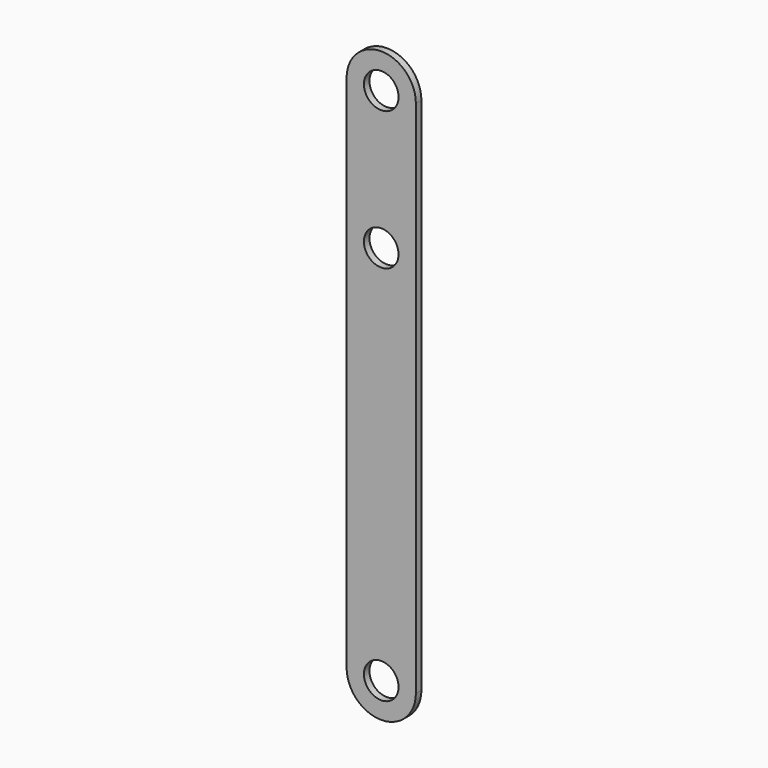
from build123d import *

# Parameters (mm, degrees)
F0_R     = 2.5
F1_DEPTH = 1


with BuildPart() as f1:
    # F0 (on Front) → F1 (new body)
    with BuildSketch(Plane.XZ):
        with BuildLine():
            Line((5, -37.5), (5, 37.5))
            ThreePointArc((5, 37.5), (0, 42.5), (-5, 37.5))
            Line((-5, 37.5), (-5, -37.5))
            ThreePointArc((-5, -37.5), (0, -42.5), (5, -37.5))
        make_face()
        with Locations((0, -37.5)):
            Circle(F0_R, mode=Mode.SUBTRACT)
        with Locations((0, 17.5)):
            Circle(F0_R, mode=Mode.SUBTRACT)
        with Locations((0, 37.5)):
            Circle(F0_R, mode=Mode.SUBTRACT)
    extrude(amount=F1_DEPTH)


solid = f1.part
